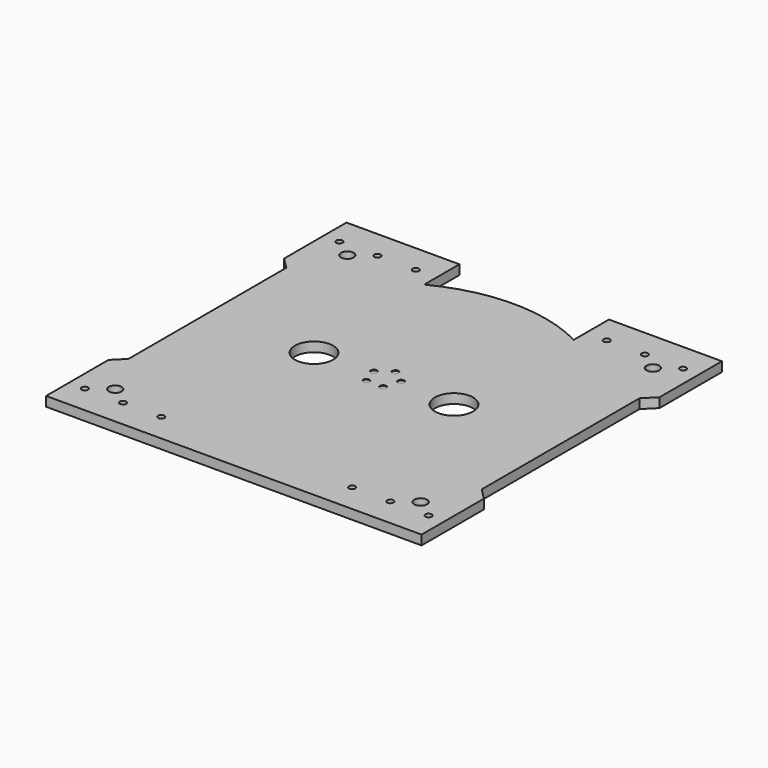
from build123d import *

# Parameters (mm, degrees)
F0_W     = 749.3
F0_H     = 749.3
F1_DEPTH = 19.05
F3_DEPTH = 114.3
F4_R     = 6.35
F5_DEPTH = 1.27
F6_R     = 6.35
F6_R_2   = 12.7
F6_R_3   = 38.1
F7_DEPTH = 25.4
F9_DEPTH = 37.592


with BuildPart() as f1:
    # F0 (on Top) → F1 (new body)
    with BuildSketch(Plane.XY):
        Rectangle(F0_W, F0_H)
    extrude(amount=F1_DEPTH)

    # F2 (on face) → F3 (cut)
    with BuildSketch(Plane.XY.offset(19.05)):
        Polygon((-352.425, 196.85), (-374.65, 219.075), (-374.65, -219.075), (-352.425, -196.85), align=None)
        Polygon((374.65, -219.075), (374.65, 219.075), (352.425, 196.85), (352.425, -196.85), align=None)
    extrude(amount=-F3_DEPTH, mode=Mode.SUBTRACT)

    # F4 (on face) → F5 (cut)
    with BuildSketch(Plane.XY.offset(19.05)):
        with Locations((0, 28.575)):
            Circle(F4_R)
        with Locations((-27.17644, 8.830161)):
            Circle(F4_R)
        with Locations((-16.795964, -23.117661)):
            Circle(F4_R)
        with Locations((16.795964, -23.117661)):
            Circle(F4_R)
        with Locations((27.17644, 8.830161)):
            Circle(F4_R)
    extrude(amount=-F5_DEPTH, mode=Mode.SUBTRACT)

    # F6 (on face) → F7 (cut)
    with BuildSketch(Plane.XY.offset(19.05)):
        with Locations((190.5, -317.5)):
            Circle(F6_R)
        with Locations((266.7, -317.5)):
            Circle(F6_R)
        with Locations((342.9, -317.5)):
            Circle(F6_R)
        with Locations((304.8, -289.56)):
            Circle(F6_R_2)
        with Locations((304.8, 289.56)):
            Circle(F6_R_2)
        with Locations((342.9, 317.5)):
            Circle(F6_R)
        with Locations((266.7, 317.5)):
            Circle(F6_R)
        with Locations((190.5, 317.5)):
            Circle(F6_R)
        with Locations((-304.8, -289.56)):
            Circle(F6_R_2)
        with Locations((-342.9, -317.5)):
            Circle(F6_R)
        with Locations((-266.7, -317.5)):
            Circle(F6_R)
        with Locations((-190.5, -317.5)):
            Circle(F6_R)
        with Locations((-190.5, 317.5)):
            Circle(F6_R)
        with Locations((-266.7, 317.5)):
            Circle(F6_R)
        with Locations((-342.9, 317.5)):
            Circle(F6_R)
        with Locations((-304.8, 289.56)):
            Circle(F6_R_2)
        with Locations((-139.7, 0)):
            Circle(F6_R_3)
        with Locations((139.7, 0)):
            Circle(F6_R_3)
    extrude(amount=-F7_DEPTH, mode=Mode.SUBTRACT)

    # F8 (on face) → F9 (cut)
    with BuildSketch(Plane(origin=(0, 0, 0), x_dir=(1, 0, 0), z_dir=(0, 0, -1))):
        with BuildLine():
            Line((-149.225, -374.65), (0, -374.65))
            Line((0, -374.65), (149.225, -374.65))
            Line((149.225, -374.65), (149.225, -287.42081))
            Line((149.225, -287.42081), (149.225, -286.705137))
            ThreePointArc((149.225, -286.705137), (0, -323.215), (-149.225, -286.705137))
            Line((-149.225, -286.705137), (-149.225, -287.42081))
            Line((-149.225, -287.42081), (-149.225, -374.65))
        make_face()
    extrude(amount=-F9_DEPTH, mode=Mode.SUBTRACT)


solid = f1.part
